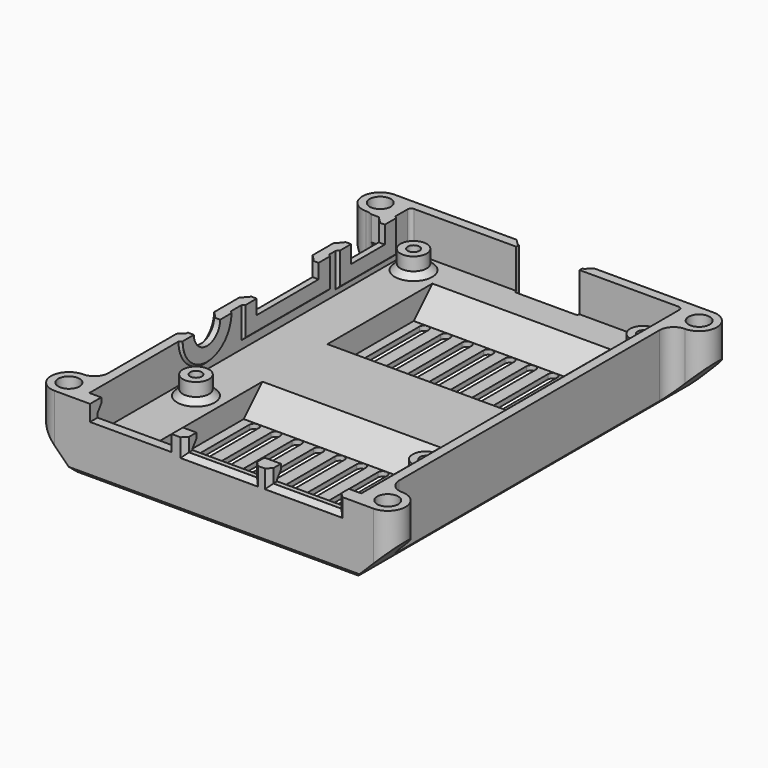
from build123d import *

# Parameters (mm, degrees)
PAD_DEPTH                            = 10.3
PAD_DEPTH_BACK                       = 4
POCKET005_DEPTH                      = 45.301
POCKET005_DEPTH_BACK                 = 45.301
HOLE001_D                            = 3.3
HOLE001_DEPTH                        = 7
HOLE001_CBORE_D                      = 4.5
HOLE001_CBORE_DEPTH                  = 5
HOLE001_TIPS_R                       = 1.65
POCKET_DEPTH                         = 8.3
PAD002_DEPTH                         = 29
SKETCH002_R                          = 2.8
PAD001_DEPTH                         = 4
SKETCH006_R                          = 1.25
HOLE_DEPTH                           = 8
HOLE_TIPS_R                          = 1.25
SKETCH003_W                          = 17.4
SKETCH003_H                          = 4.1
SKETCH003_W_2                        = 14.5
SKETCH003_H_2                        = 3.6
POCKET001_DEPTH                      = 4
SKETCH004_W                          = 16.5
SKETCH004_H                          = 4.6
POCKET002_DEPTH                      = 1
POCKET003_DEPTH                      = 9.301
SKETCH008_W                          = 16.5
SKETCH008_H                          = 12.5
POCKET004_DEPTH                      = 1.2
SKETCH011_W                          = 22.5
SKETCH011_H                          = 6.1
SKETCH011_W_2                        = 15
SKETCH011_H_2                        = 6.75
PAD003_DEPTH                         = 0.5
SKETCH012_W                          = 16.5
SKETCH012_H                          = 4.1
SKETCH012_W_2                        = 9
SKETCH012_H_2                        = 4.75
POCKET006_DEPTH                      = 3
SKETCH013_W                          = 19.5
SKETCH013_H                          = 5.5
SKETCH013_W_2                        = 12
SKETCH013_H_2                        = 6.25
POCKET007_DEPTH                      = 1.2
POCKET007_DEPTH_BACK                 = 6
POCKET017_DEPTH                      = 3.5
POCKET018_DEPTH                      = 1.4
SKETCH030_W                          = 38
SKETCH030_H                          = 18
POCKET020_DEPTH                      = 5
CHAMFER003_SIZE                      = 4.99
POCKET021_DEPTH                      = 241.725294
POCKET021_DEPTH_BACK                 = 248.025294
POCKET021_LINEARPATTERN_2_DEPTH      = 241.725294
POCKET021_LINEARPATTERN_2_DEPTH_BACK = 248.025294
POCKET021_LINEARPATTERN_3_DEPTH      = 241.725294
POCKET021_LINEARPATTERN_3_DEPTH_BACK = 248.025294
POCKET021_LINEARPATTERN_4_DEPTH      = 241.725294
POCKET021_LINEARPATTERN_4_DEPTH_BACK = 248.025294
POCKET021_LINEARPATTERN_5_DEPTH      = 241.725294
POCKET021_LINEARPATTERN_5_DEPTH_BACK = 248.025294
POCKET021_LINEARPATTERN_6_DEPTH      = 241.725294
POCKET021_LINEARPATTERN_6_DEPTH_BACK = 248.025294
POCKET021_LINEARPATTERN_7_DEPTH      = 241.725294
POCKET021_LINEARPATTERN_7_DEPTH_BACK = 248.025294
POCKET021_LINEARPATTERN_8_DEPTH      = 241.725294
POCKET021_LINEARPATTERN_8_DEPTH_BACK = 248.025294
CHAMFER004_SIZE                      = 0.99
CHAMFER005_SIZE                      = 1.19
CHAMFER006_SIZE                      = 0.49
CHAMFER007_SIZE                      = 1.2
CHAMFER008_SIZE                      = 1


with BuildPart() as part:
    # Sketch → Pad (new body, two sides)
    with BuildSketch(Plane.XY) as pad_sk:
        with BuildLine():
            Line((-31, -34.7), (-31, 34.7))
            ThreePointArc((-31, 34.7), (-31.87868, 36.82132), (-34, 37.7))
            ThreePointArc((-34, 45.3), (-37.8, 41.5), (-34, 37.7))
            Line((-34, 45.3), (34, 45.3))
            ThreePointArc((34, 37.7), (37.8, 41.5), (34, 45.3))
            ThreePointArc((34, 37.7), (31.87868, 36.82132), (31, 34.7))
            Line((31, 34.7), (31, -34.7))
            ThreePointArc((31, -34.7), (31.87868, -36.82132), (34, -37.7))
            ThreePointArc((34, -45.3), (37.8, -41.5), (34, -37.7))
            Line((34, -45.3), (-34, -45.3))
            ThreePointArc((-34, -37.7), (-37.8, -41.5), (-34, -45.3))
            ThreePointArc((-34, -37.7), (-31.87868, -36.82132), (-31, -34.7))
        make_face()
    extrude(amount=PAD_DEPTH)
    extrude(pad_sk.sketch, amount=-PAD_DEPTH_BACK)

    # Sketch010 → Pocket005 (cut, two sides)
    with BuildSketch(Plane.XZ) as pocket005_sk:
        Polygon((-39, 5), (-30, -4), (30, -4), (39, 5), (39, -6), (-39, -6), align=None)
    extrude(amount=-POCKET005_DEPTH, mode=Mode.SUBTRACT)
    extrude(pocket005_sk.sketch, amount=POCKET005_DEPTH_BACK, mode=Mode.SUBTRACT)

    # Hole001
    with Locations(Plane.XY.offset(10.3)):
        with Locations((-34, 41.5), (34, 41.5), (-34, -41.5), (34, -41.5)):
            CounterBoreHole(HOLE001_D / 2, HOLE001_CBORE_D / 2, HOLE001_CBORE_DEPTH, depth=HOLE001_DEPTH)

    # Hole001 tips → Hole001 tip 1 section 0
    with BuildSketch(Plane.XY.offset(3.3), mode=Mode.PRIVATE) as hole001_tip_1_s0:
        with Locations((-34, 41.5)):
            Circle(HOLE001_TIPS_R)
    loft([hole001_tip_1_s0.sketch, Vertex(-34, 41.5, 2.30858)], mode=Mode.SUBTRACT)

    # Hole001 tips → Hole001 tip 2 section 0
    with BuildSketch(Plane.XY.offset(3.3), mode=Mode.PRIVATE) as hole001_tip_2_s0:
        with Locations((34, 41.5)):
            Circle(HOLE001_TIPS_R)
    loft([hole001_tip_2_s0.sketch, Vertex(34, 41.5, 2.30858)], mode=Mode.SUBTRACT)

    # Hole001 tips → Hole001 tip 3 section 0
    with BuildSketch(Plane.XY.offset(3.3), mode=Mode.PRIVATE) as hole001_tip_3_s0:
        with Locations((-34, -41.5)):
            Circle(HOLE001_TIPS_R)
    loft([hole001_tip_3_s0.sketch, Vertex(-34, -41.5, 2.30858)], mode=Mode.SUBTRACT)

    # Hole001 tips → Hole001 tip 4 section 0
    with BuildSketch(Plane.XY.offset(3.3), mode=Mode.PRIVATE) as hole001_tip_4_s0:
        with Locations((34, -41.5)):
            Circle(HOLE001_TIPS_R)
    loft([hole001_tip_4_s0.sketch, Vertex(34, -41.5, 2.30858)], mode=Mode.SUBTRACT)

    # Sketch001 → Pocket (cut)
    with BuildSketch(Plane.XY.offset(10.3)):
        with BuildLine():
            ThreePointArc((-28.2, 43.3), (-28.765685, 43.065685), (-29, 42.5))
            Line((-29, -42.5), (-29, 42.5))
            ThreePointArc((-29, -42.5), (-28.765685, -43.065685), (-28.2, -43.3))
            Line((28.2, -43.3), (-28.2, -43.3))
            ThreePointArc((28.2, -43.3), (28.765685, -43.065685), (29, -42.5))
            Line((29, 42.5), (29, -42.5))
            ThreePointArc((29, 42.5), (28.765685, 43.065685), (28.2, 43.3))
            Line((-28.2, 43.3), (28.2, 43.3))
        make_face()
    extrude(amount=-POCKET_DEPTH, mode=Mode.SUBTRACT)

    # Sketch005 → Pad002 (join, symmetric)
    with BuildSketch(Plane.YZ):
        Polygon((-43.3, 7.8), (-43.3, 10.3), (-42.3, 10.3), (-42.3, 9.176382), align=None)
    extrude(amount=PAD002_DEPTH, both=True)

    # Sketch002 → Pad001 (join)
    with BuildSketch(Plane.XY.offset(2)):
        with Locations((-24.5, 38.5)):
            Circle(SKETCH002_R)
        with Locations((24.5, 38.5)):
            Circle(SKETCH002_R)
        with Locations((24.5, -19.5)):
            Circle(SKETCH002_R)
        with Locations((-24.5, -19.5)):
            Circle(SKETCH002_R)
    extrude(amount=PAD001_DEPTH)

    # Sketch006 → Hole (cut)
    with BuildSketch(Plane.XY.offset(6)):
        with Locations((-24.5, 38.5)):
            Circle(SKETCH006_R)
        with Locations((24.5, 38.5)):
            Circle(SKETCH006_R)
        with Locations((24.5, -19.5)):
            Circle(SKETCH006_R)
        with Locations((-24.5, -19.5)):
            Circle(SKETCH006_R)
    extrude(amount=-HOLE_DEPTH, mode=Mode.SUBTRACT)

    # Hole tips → Hole tip 1 section 0
    with BuildSketch(Plane.XY.offset(-2), mode=Mode.PRIVATE) as hole_tip_1_s0:
        with Locations((-24.5, 38.5)):
            Circle(HOLE_TIPS_R)
    loft([hole_tip_1_s0.sketch, Vertex(-24.5, 38.5, -2.751076)], mode=Mode.SUBTRACT)

    # Hole tips → Hole tip 2 section 0
    with BuildSketch(Plane.XY.offset(-2), mode=Mode.PRIVATE) as hole_tip_2_s0:
        with Locations((24.5, 38.5)):
            Circle(HOLE_TIPS_R)
    loft([hole_tip_2_s0.sketch, Vertex(24.5, 38.5, -2.751076)], mode=Mode.SUBTRACT)

    # Hole tips → Hole tip 3 section 0
    with BuildSketch(Plane.XY.offset(-2), mode=Mode.PRIVATE) as hole_tip_3_s0:
        with Locations((24.5, -19.5)):
            Circle(HOLE_TIPS_R)
    loft([hole_tip_3_s0.sketch, Vertex(24.5, -19.5, -2.751076)], mode=Mode.SUBTRACT)

    # Hole tips → Hole tip 4 section 0
    with BuildSketch(Plane.XY.offset(-2), mode=Mode.PRIVATE) as hole_tip_4_s0:
        with Locations((-24.5, -19.5)):
            Circle(HOLE_TIPS_R)
    loft([hole_tip_4_s0.sketch, Vertex(-24.5, -19.5, -2.751076)], mode=Mode.SUBTRACT)

    # Sketch003 → Pocket001 (cut)
    with BuildSketch(Plane.XZ.offset(45.3)):
        with Locations((-17.75, 8.95)):
            Rectangle(SKETCH003_W, SKETCH003_H)
        with Locations((1.1, 9.2)):
            Rectangle(SKETCH003_W_2, SKETCH003_H_2)
        with Locations((19.1, 9.2)):
            Rectangle(SKETCH003_W_2, SKETCH003_H_2)
    extrude(amount=-POCKET001_DEPTH, mode=Mode.SUBTRACT)

    # Sketch004 → Pocket002 (cut)
    with BuildSketch(Plane.XZ.offset(45.3)):
        with Locations((1.1, 8.7)):
            Rectangle(SKETCH004_W, SKETCH004_H)
        with Locations((19.1, 8.7)):
            Rectangle(SKETCH004_W, SKETCH004_H)
    extrude(amount=-POCKET002_DEPTH, mode=Mode.SUBTRACT)

    # Sketch007 → Pocket003 (cut, through all)
    with BuildSketch(Plane.XY.offset(1)):
        with BuildLine():
            Line((-5.95, 42.8), (6.55, 42.8))
            ThreePointArc((6.55, 42.8), (6.903553, 42.946447), (7.05, 43.3))
            Line((7.05, 43.3), (7.05, 46.3))
            Line((7.05, 46.3), (-6.45, 46.3))
            Line((-6.45, 46.3), (-6.45, 43.3))
            ThreePointArc((-6.45, 43.3), (-6.303553, 42.946447), (-5.95, 42.8))
        make_face()
    extrude(amount=POCKET003_DEPTH, mode=Mode.SUBTRACT)

    # Sketch008 → Pocket004 (cut)
    with BuildSketch(Plane.XZ.offset(-45.3)):
        with Locations((0.3, 5.65)):
            Rectangle(SKETCH008_W, SKETCH008_H)
    extrude(amount=POCKET004_DEPTH, mode=Mode.SUBTRACT)

    # Sketch011 → Pad003 (join)
    with BuildSketch(Plane.YZ.offset(-29)):
        with BuildLine():
            ThreePointArc((-18.05, 10.3), (-11.55, 3.8), (-5.05, 10.3))
            Line((-18.05, 10.3), (-5.05, 10.3))
        make_face()
        with Locations((9.95, 7.25)):
            Rectangle(SKETCH011_W, SKETCH011_H)
        with Locations((31.35, 6.925)):
            Rectangle(SKETCH011_W_2, SKETCH011_H_2)
    extrude(amount=PAD003_DEPTH)

    # Sketch012 → Pocket006 (cut)
    with BuildSketch(Plane.YZ.offset(-31)):
        with BuildLine():
            ThreePointArc((-15.05, 10.3), (-11.55, 6.8), (-8.05, 10.3))
            Line((-8.05, 11.3), (-8.05, 10.3))
            Line((-15.05, 11.3), (-8.05, 11.3))
            Line((-15.05, 10.3), (-15.05, 11.3))
        make_face()
        with Locations((9.95, 9.25)):
            Rectangle(SKETCH012_W, SKETCH012_H)
        with Locations((31.35, 8.925)):
            Rectangle(SKETCH012_W_2, SKETCH012_H_2)
    extrude(amount=POCKET006_DEPTH, mode=Mode.SUBTRACT)

    # Sketch013 → Pocket007 (cut, two sides)
    with BuildSketch(Plane.YZ.offset(-31)) as pocket007_sk:
        with BuildLine():
            ThreePointArc((-16.55, 10.3), (-11.55, 5.3), (-6.55, 10.3))
            Line((-6.55, 11.3), (-6.55, 10.3))
            Line((-16.55, 11.3), (-6.55, 11.3))
            Line((-16.55, 10.3), (-16.55, 11.3))
        make_face()
        with Locations((9.95, 8.55)):
            Rectangle(SKETCH013_W, SKETCH013_H)
        with Locations((31.35, 8.175)):
            Rectangle(SKETCH013_W_2, SKETCH013_H_2)
    extrude(amount=POCKET007_DEPTH, mode=Mode.SUBTRACT)
    extrude(pocket007_sk.sketch, amount=-POCKET007_DEPTH_BACK, mode=Mode.SUBTRACT)

    # Sketch027 → Pocket017 (cut)
    with BuildSketch(Plane.XY.offset(-2.6)):
        with BuildLine():
            ThreePointArc((-16, 5), (-20, 9), (-24, 5))
            Line((-24, 5), (-24, -5))
            ThreePointArc((-24, -5), (-20, -9), (-16, -5))
            Line((-16, -5), (-16, 5))
        make_face()
        with BuildLine():
            ThreePointArc((24, 5), (20, 9), (16, 5))
            Line((16, 5), (16, -5))
            ThreePointArc((16, -5), (20, -9), (24, -5))
            Line((24, -5), (24, 5))
        make_face()
    extrude(amount=POCKET017_DEPTH, mode=Mode.SUBTRACT)

    # Sketch028 → Pocket018 (cut)
    with BuildSketch(Plane.XY.offset(-4)):
        with BuildLine():
            ThreePointArc((-18.3, 5), (-20, 6.7), (-21.7, 5))
            Line((-21.7, 5), (-21.7, 2.5))
            Line((-24, 2.5), (-21.7, 2.5))
            Line((-24, -2.5), (-24, 2.5))
            Line((-21.7, -2.5), (-24, -2.5))
            Line((-21.7, -2.5), (-21.7, -5))
            ThreePointArc((-21.7, -5), (-20, -6.7), (-18.3, -5))
            Line((-18.3, -5), (-18.3, -2.5))
            Line((-16, -2.5), (-18.3, -2.5))
            Line((-16, 2.5), (-16, -2.5))
            Line((-18.3, 2.5), (-16, 2.5))
            Line((-18.3, 2.5), (-18.3, 5))
        make_face()
        with BuildLine():
            ThreePointArc((21.7, 5), (20, 6.7), (18.3, 5))
            Line((18.3, 5), (18.3, 2.5))
            Line((16, 2.5), (18.3, 2.5))
            Line((16, -2.5), (16, 2.5))
            Line((18.3, -2.5), (16, -2.5))
            Line((18.3, -2.5), (18.3, -5))
            ThreePointArc((18.3, -5), (20, -6.7), (21.7, -5))
            Line((21.7, -5), (21.7, -2.5))
            Line((24, -2.5), (21.7, -2.5))
            Line((24, 2.5), (24, -2.5))
            Line((21.7, 2.5), (24, 2.5))
            Line((21.7, 2.5), (21.7, 5))
        make_face()
    extrude(amount=POCKET018_DEPTH, mode=Mode.SUBTRACT)

    # Sketch030 → Pocket020 (cut)
    with BuildSketch(Plane.XY.offset(2)):
        with Locations((0, 22.65)):
            Rectangle(SKETCH030_W, SKETCH030_H)
        with Locations((0, -22.65)):
            Rectangle(SKETCH030_W, SKETCH030_H)
    extrude(amount=-POCKET020_DEPTH, mode=Mode.SUBTRACT)

    # Chamfer003
    chamfer003_edges = [part.edges().sort_by_distance(p)[0] for p in [
        (0, -13.65, 2),
        (0, -31.65, 2),
        (0, 13.65, 2),
        (0, 31.65, 2),
    ]]
    chamfer(chamfer003_edges, length=CHAMFER003_SIZE)

    # Sketch031 → Pocket021 (cut, two sides)
    with BuildSketch(Plane.XY) as pocket021_sk:
        with BuildLine():
            ThreePointArc((-15, 30.65), (-16, 31.65), (-17, 30.65))
            Line((-17, 30.65), (-17, 14.65))
            ThreePointArc((-17, 14.65), (-16, 13.65), (-15, 14.65))
            Line((-15, 14.65), (-15, 30.65))
        make_face()
    pocket021 = extrude(amount=-POCKET021_DEPTH, mode=Mode.SUBTRACT) + extrude(pocket021_sk.sketch, amount=POCKET021_DEPTH_BACK, mode=Mode.SUBTRACT)

    # Sketch031 LinearPattern 2 → Pocket021 LinearPattern 2 (cut, two sides)
    with BuildSketch(Plane(origin=(4.571429, 0, 0), x_dir=(1, 0, 0), z_dir=(0, 0, 1))) as pocket021_linearpattern_2_sk:
        with BuildLine():
            ThreePointArc((-15, 30.65), (-16, 31.65), (-17, 30.65))
            Line((-17, 30.65), (-17, 14.65))
            ThreePointArc((-17, 14.65), (-16, 13.65), (-15, 14.65))
            Line((-15, 14.65), (-15, 30.65))
        make_face()
    pocket021_linearpattern_2 = extrude(amount=-POCKET021_LINEARPATTERN_2_DEPTH, mode=Mode.SUBTRACT) + extrude(pocket021_linearpattern_2_sk.sketch, amount=POCKET021_LINEARPATTERN_2_DEPTH_BACK, mode=Mode.SUBTRACT)

    # Sketch031 LinearPattern 3 → Pocket021 LinearPattern 3 (cut, two sides)
    with BuildSketch(Plane(origin=(9.142857, 0, 0), x_dir=(1, 0, 0), z_dir=(0, 0, 1))) as pocket021_linearpattern_3_sk:
        with BuildLine():
            ThreePointArc((-15, 30.65), (-16, 31.65), (-17, 30.65))
            Line((-17, 30.65), (-17, 14.65))
            ThreePointArc((-17, 14.65), (-16, 13.65), (-15, 14.65))
            Line((-15, 14.65), (-15, 30.65))
        make_face()
    pocket021_linearpattern_3 = extrude(amount=-POCKET021_LINEARPATTERN_3_DEPTH, mode=Mode.SUBTRACT) + extrude(pocket021_linearpattern_3_sk.sketch, amount=POCKET021_LINEARPATTERN_3_DEPTH_BACK, mode=Mode.SUBTRACT)

    # Sketch031 LinearPattern 4 → Pocket021 LinearPattern 4 (cut, two sides)
    with BuildSketch(Plane(origin=(13.714286, 0, 0), x_dir=(1, 0, 0), z_dir=(0, 0, 1))) as pocket021_linearpattern_4_sk:
        with BuildLine():
            ThreePointArc((-15, 30.65), (-16, 31.65), (-17, 30.65))
            Line((-17, 30.65), (-17, 14.65))
            ThreePointArc((-17, 14.65), (-16, 13.65), (-15, 14.65))
            Line((-15, 14.65), (-15, 30.65))
        make_face()
    pocket021_linearpattern_4 = extrude(amount=-POCKET021_LINEARPATTERN_4_DEPTH, mode=Mode.SUBTRACT) + extrude(pocket021_linearpattern_4_sk.sketch, amount=POCKET021_LINEARPATTERN_4_DEPTH_BACK, mode=Mode.SUBTRACT)

    # Sketch031 LinearPattern 5 → Pocket021 LinearPattern 5 (cut, two sides)
    with BuildSketch(Plane(origin=(18.285714, 0, 0), x_dir=(1, 0, 0), z_dir=(0, 0, 1))) as pocket021_linearpattern_5_sk:
        with BuildLine():
            ThreePointArc((-15, 30.65), (-16, 31.65), (-17, 30.65))
            Line((-17, 30.65), (-17, 14.65))
            ThreePointArc((-17, 14.65), (-16, 13.65), (-15, 14.65))
            Line((-15, 14.65), (-15, 30.65))
        make_face()
    pocket021_linearpattern_5 = extrude(amount=-POCKET021_LINEARPATTERN_5_DEPTH, mode=Mode.SUBTRACT) + extrude(pocket021_linearpattern_5_sk.sketch, amount=POCKET021_LINEARPATTERN_5_DEPTH_BACK, mode=Mode.SUBTRACT)

    # Sketch031 LinearPattern 6 → Pocket021 LinearPattern 6 (cut, two sides)
    with BuildSketch(Plane(origin=(22.857143, 0, 0), x_dir=(1, 0, 0), z_dir=(0, 0, 1))) as pocket021_linearpattern_6_sk:
        with BuildLine():
            ThreePointArc((-15, 30.65), (-16, 31.65), (-17, 30.65))
            Line((-17, 30.65), (-17, 14.65))
            ThreePointArc((-17, 14.65), (-16, 13.65), (-15, 14.65))
            Line((-15, 14.65), (-15, 30.65))
        make_face()
    pocket021_linearpattern_6 = extrude(amount=-POCKET021_LINEARPATTERN_6_DEPTH, mode=Mode.SUBTRACT) + extrude(pocket021_linearpattern_6_sk.sketch, amount=POCKET021_LINEARPATTERN_6_DEPTH_BACK, mode=Mode.SUBTRACT)

    # Sketch031 LinearPattern 7 → Pocket021 LinearPattern 7 (cut, two sides)
    with BuildSketch(Plane(origin=(27.428571, 0, 0), x_dir=(1, 0, 0), z_dir=(0, 0, 1))) as pocket021_linearpattern_7_sk:
        with BuildLine():
            ThreePointArc((-15, 30.65), (-16, 31.65), (-17, 30.65))
            Line((-17, 30.65), (-17, 14.65))
            ThreePointArc((-17, 14.65), (-16, 13.65), (-15, 14.65))
            Line((-15, 14.65), (-15, 30.65))
        make_face()
    pocket021_linearpattern_7 = extrude(amount=-POCKET021_LINEARPATTERN_7_DEPTH, mode=Mode.SUBTRACT) + extrude(pocket021_linearpattern_7_sk.sketch, amount=POCKET021_LINEARPATTERN_7_DEPTH_BACK, mode=Mode.SUBTRACT)

    # Sketch031 LinearPattern 8 → Pocket021 LinearPattern 8 (cut, two sides)
    with BuildSketch(Plane(origin=(32, 0, 0), x_dir=(1, 0, 0), z_dir=(0, 0, 1))) as pocket021_linearpattern_8_sk:
        with BuildLine():
            ThreePointArc((-15, 30.65), (-16, 31.65), (-17, 30.65))
            Line((-17, 30.65), (-17, 14.65))
            ThreePointArc((-17, 14.65), (-16, 13.65), (-15, 14.65))
            Line((-15, 14.65), (-15, 30.65))
        make_face()
    pocket021_linearpattern_8 = extrude(amount=-POCKET021_LINEARPATTERN_8_DEPTH, mode=Mode.SUBTRACT) + extrude(pocket021_linearpattern_8_sk.sketch, amount=POCKET021_LINEARPATTERN_8_DEPTH_BACK, mode=Mode.SUBTRACT)

    # Mirrored: Pocket021, Pocket021 LinearPattern 2, Pocket021 LinearPattern 3, Pocket021 LinearPattern 4, Pocket021 LinearPattern 5, Pocket021 LinearPattern 6, Pocket021 LinearPattern 7, Pocket021 LinearPattern 8 across XZ
    add(pocket021.mirror(Plane.XZ), mode=Mode.SUBTRACT)
    add(pocket021_linearpattern_2.mirror(Plane.XZ), mode=Mode.SUBTRACT)
    add(pocket021_linearpattern_3.mirror(Plane.XZ), mode=Mode.SUBTRACT)
    add(pocket021_linearpattern_4.mirror(Plane.XZ), mode=Mode.SUBTRACT)
    add(pocket021_linearpattern_5.mirror(Plane.XZ), mode=Mode.SUBTRACT)
    add(pocket021_linearpattern_6.mirror(Plane.XZ), mode=Mode.SUBTRACT)
    add(pocket021_linearpattern_7.mirror(Plane.XZ), mode=Mode.SUBTRACT)
    add(pocket021_linearpattern_8.mirror(Plane.XZ), mode=Mode.SUBTRACT)

    # Chamfer004
    chamfer004_edges = [part.edges().sort_by_distance(p)[0] for p in [
        (-7.15, -44.3, 8.35),
        (1.1, -44.3, 6.4),
        (9.35, -44.3, 8.35),
        (10.85, -44.3, 8.35),
        (19.1, -44.3, 6.4),
        (27.35, -44.3, 8.35),
    ]]
    chamfer(chamfer004_edges, length=CHAMFER004_SIZE)

    # Chamfer005
    chamfer005_edges = [part.edges().sort_by_distance(p)[0] for p in [
        (-29.8, 0.2, 8.05),
        (-29.8, 9.95, 5.8),
        (-29.8, 19.7, 8.05),
        (-29.8, 25.35, 7.675),
        (-29.8, 31.35, 5.05),
        (-29.8, 37.35, 7.675),
        (8.55, 44.1, 4.85),
        (0.3, 44.1, -0.6),
        (-7.95, 44.1, 4.85),
        (-29.8, -11.55, 5.3),
    ]]
    chamfer(chamfer005_edges, length=CHAMFER005_SIZE)

    # Chamfer006
    chamfer006_edges = [part.edges().sort_by_distance(p)[0] for p in [
        (-29, 23.85, 6.925),
        (-29, 31.35, 3.55),
        (-29, 38.85, 6.925),
        (-29, 21.2, 7.25),
        (-29, 9.95, 4.2),
        (-29, -1.3, 7.25),
        (-29, -11.55, 3.8),
    ]]
    chamfer(chamfer006_edges, length=CHAMFER006_SIZE)

    # Chamfer007
    chamfer007_edges = [part.edges().sort_by_distance(p)[0] for p in [
        (-27.3, 38.5, 2),
        (-27.3, -19.5, 2),
        (21.7, 38.5, 2),
        (21.7, -19.5, 2),
    ]]
    chamfer(chamfer007_edges, length=CHAMFER007_SIZE)

    # Chamfer008
    chamfer008_edges = [part.edges().sort_by_distance(p)[0] for p in [
        (0, 45.3, -4),
        (0, -45.3, -4),
    ]]
    chamfer(chamfer008_edges, length=CHAMFER008_SIZE)


solid = part.part
